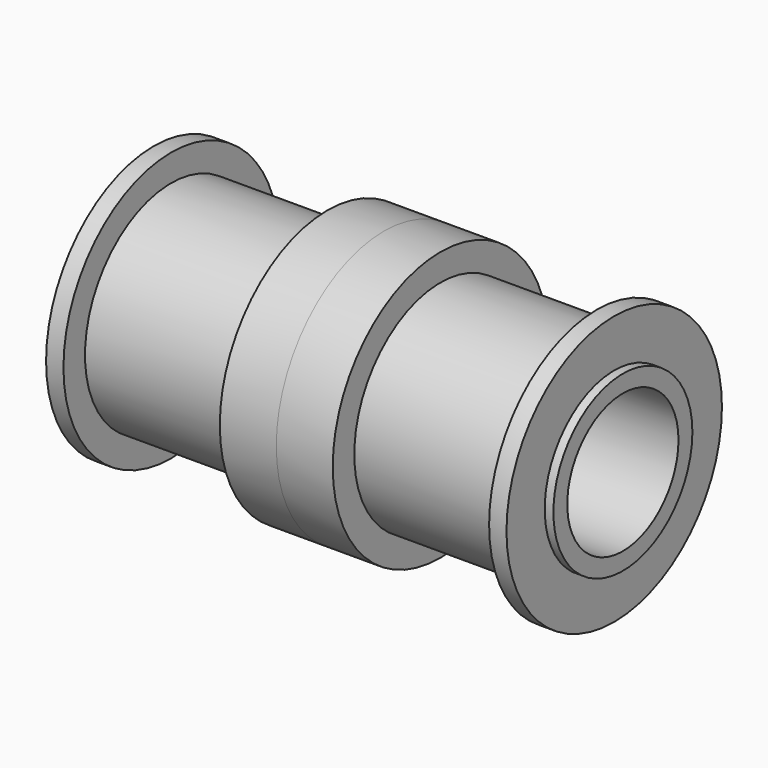
from build123d import *

# Parameters (mm, degrees)
F0_R     = 5
F0_R_2   = 4
F1_DEPTH = 0.5
F2_R     = 7.75
F2_R_2   = 5
F2_R_3   = 4
F3_DEPTH = 1
F4_R     = 6.2
F4_R_2   = 4
F5_DEPTH = 9
F6_R     = 7.75
F6_R_2   = 4
F7_DEPTH = 3.25


with BuildPart() as f1:
    # F0 (on Right) → F1 (new body)
    with BuildSketch(Plane.YZ):
        Circle(F0_R)
        Circle(F0_R_2, mode=Mode.SUBTRACT)
    extrude(amount=F1_DEPTH)


with BuildPart() as f3:
    # F2 (on face) → F3 (new body)
    with BuildSketch(Plane.YZ.offset(0.5)):
        Circle(F2_R)
        Circle(F2_R_2, mode=Mode.SUBTRACT)
        Circle(F2_R_2)
        Circle(F2_R_3, mode=Mode.SUBTRACT)
    extrude(amount=F3_DEPTH)

    # F4 (on face) → F5 (join)
    with BuildSketch(Plane.YZ.offset(1.5)):
        Circle(F4_R)
        Circle(F4_R_2, mode=Mode.SUBTRACT)
    extrude(amount=F5_DEPTH)


with BuildPart() as f7:
    # F6 (on face) → F7 (new body)
    with BuildSketch(Plane.YZ.offset(10.5)):
        Circle(F6_R)
        Circle(F6_R_2, mode=Mode.SUBTRACT)
    extrude(amount=F7_DEPTH)



with BuildPart() as f7_1:
    add(f7.part)
    # F8: F3, F1, F7 across face
    add(f3.part.mirror(Plane.YZ.offset(13.75)))
    add(f1.part.mirror(Plane.YZ.offset(13.75)))
    add(f7.part.mirror(Plane.YZ.offset(13.75)))


solid = Compound([f1.part, f3.part, f7_1.part])
